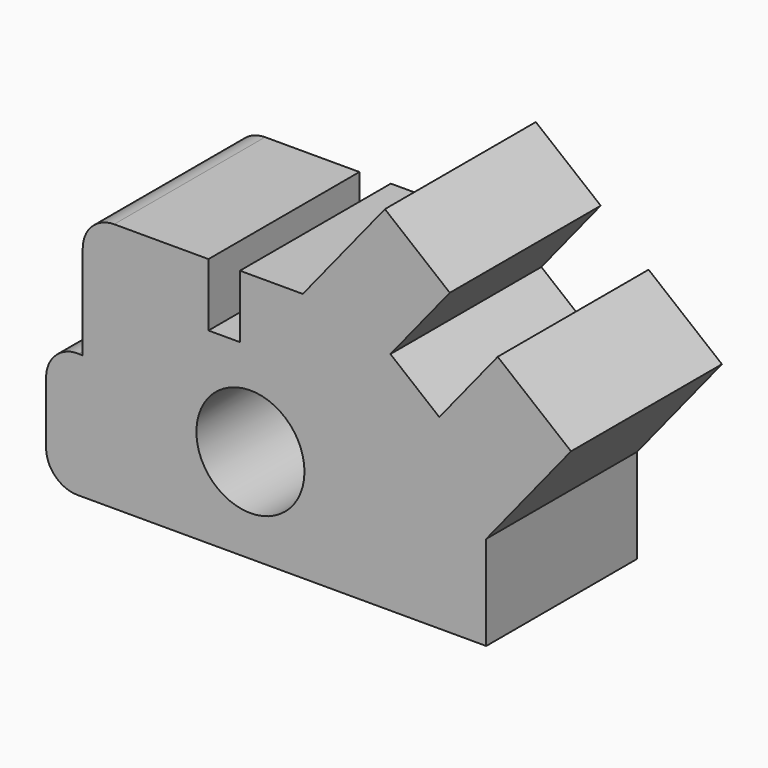
from build123d import *

# Parameters (mm, degrees)
F0_R     = 8.592724
F1_DEPTH = 30


with BuildPart() as f1:
    # F0 (on Front) → F1 (new body)
    with BuildSketch(Plane.XZ):
        with BuildLine():
            ThreePointArc((-32.5, -25.234376), (-31.035534, -28.76991), (-27.5, -30.234376))
            Line((-27.5, -30.234376), (37.5, -30.234376))
            Line((37.5, -30.234376), (37.5, -15.234376))
            Line((37.5, -15.234376), (50.980108, 1.407046))
            Line((50.980108, 1.407046), (39.320934, 10.851365))
            Line((39.320934, 10.851365), (30.032718, -0.615096))
            Line((30.032718, -0.615096), (22.262206, 5.679278))
            Line((22.262206, 5.679278), (31.703767, 17.335046))
            Line((31.703767, 17.335046), (21.387457, 25.691602))
            Line((21.387457, 25.691602), (8.327177, 9.568464))
            Line((8.327177, 9.568464), (-1.672823, 9.568464))
            Line((-1.672823, 9.568464), (-1.672823, -0.431536))
            Line((-1.672823, -0.431536), (-6.672823, -0.431536))
            Line((-6.672823, -0.431536), (-6.672823, 9.568464))
            Line((-6.672823, 9.568464), (-21.672823, 9.568464))
            ThreePointArc((-21.672823, 9.568464), (-25.208357, 8.103998), (-26.672823, 4.568464))
            Line((-26.672823, 4.568464), (-26.672823, -10.431536))
            Line((-26.672823, -10.431536), (-27.330924, -10.409269))
            ThreePointArc((-27.330924, -10.409269), (-30.975243, -11.811596), (-32.5, -15.40641))
            Line((-32.5, -15.40641), (-32.5, -25.234376))
        make_face()
        with Locations((0, -15.234376)):
            Circle(F0_R, mode=Mode.SUBTRACT)
    extrude(amount=F1_DEPTH)


solid = f1.part
